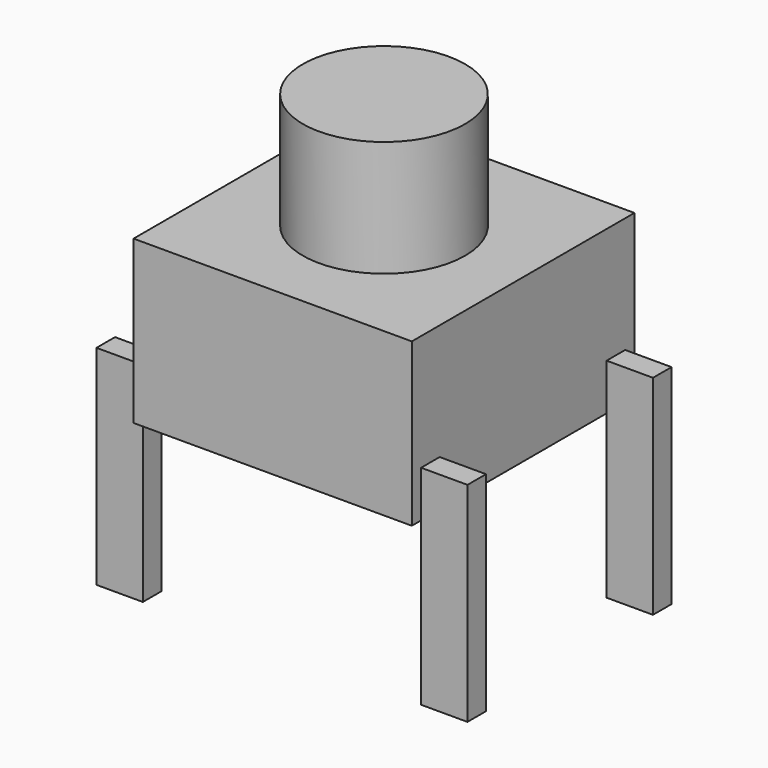
from build123d import *

# Parameters (mm, degrees)
F0_R          = 1.75
F1_DEPTH      = 3.5
F2_DEPTH      = 6
F0_W          = 1
F0_H          = 0.5
F3_DEPTH      = 1
F3_DEPTH_BACK = 3.5


with BuildPart() as f1:
    # F0 (on Top) → F1 (new body)
    with BuildSketch(Plane.XY):
        Polygon((3, 2.75), (3, 3), (-3, 3), (-3, 2.75), (-3, 2.25), (-3, -2.25), (-3, -2.75), (-3, -3), (3, -3), (3, -2.75), (3, -2.25), (3, 2.25), align=None)
        Circle(F0_R, mode=Mode.SUBTRACT)
    extrude(amount=F1_DEPTH)

    # F0 (on Top) → F2 (join)
    with BuildSketch(Plane.XY):
        Circle(F0_R)
    extrude(amount=F2_DEPTH)

    # F0 (on Top) → F3 (join, two sides)
    with BuildSketch(Plane.XY) as f3_sk:
        with Locations((-3.5, -2.5)):
            Rectangle(F0_W, F0_H)
        with Locations((-3.5, 2.5)):
            Rectangle(F0_W, F0_H)
        with Locations((3.5, 2.5)):
            Rectangle(F0_W, F0_H)
        with Locations((3.5, -2.5)):
            Rectangle(F0_W, F0_H)
    extrude(amount=F3_DEPTH)
    extrude(f3_sk.sketch, amount=-F3_DEPTH_BACK)


solid = f1.part
